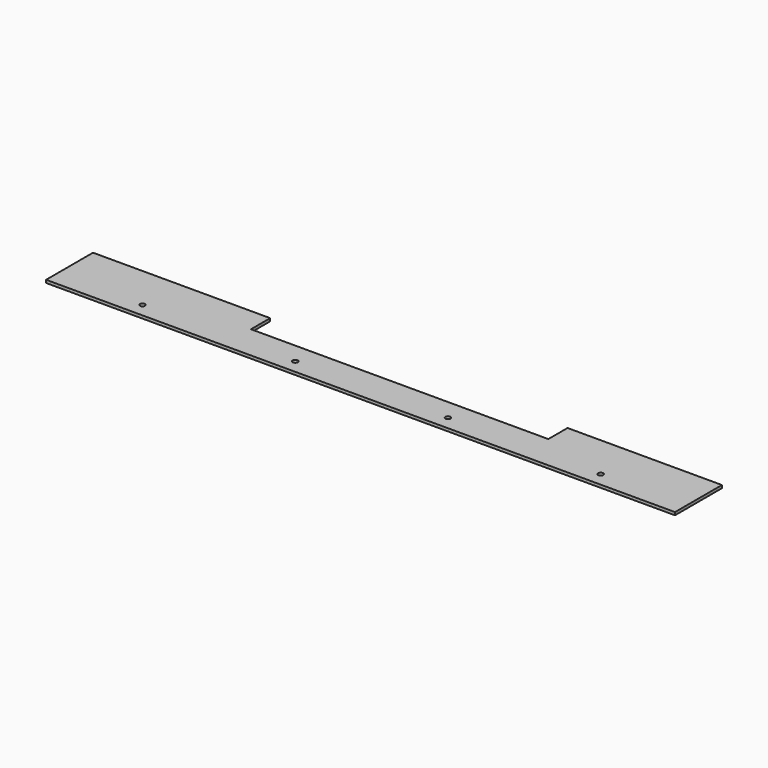
from build123d import *

# Parameters (mm, degrees)
F0_W     = 3088
F0_H     = 288
F1_DEPTH = 14
F2_W     = 1460
F2_H     = 118
F3_DEPTH = 14.001
F4_R     = 12.5
F5_DEPTH = 25


with BuildPart() as f1:
    # F0 (on Top) → F1 (new body)
    with BuildSketch(Plane.XY):
        Rectangle(F0_W, F0_H)
    extrude(amount=F1_DEPTH)

    # F2 (on face) → F3 (cut, through all)
    with BuildSketch(Plane(origin=(0, 0, 0), x_dir=(1, 0, 0), z_dir=(0, 0, -1))):
        with Locations((56, -85)):
            Rectangle(F2_W, F2_H)
    extrude(amount=-F3_DEPTH, mode=Mode.SUBTRACT)

    # F4 (on face) → F5 (cut)
    with BuildSketch(Plane(origin=(0, 0, 0), x_dir=(1, 0, 0), z_dir=(0, 0, -1))):
        with Locations((-1125, 76)):
            Circle(F4_R)
        with Locations((-375, 76)):
            Circle(F4_R)
        with Locations((375, 76)):
            Circle(F4_R)
        with Locations((1125, 76)):
            Circle(F4_R)
    extrude(amount=-F5_DEPTH, mode=Mode.SUBTRACT)


solid = f1.part
